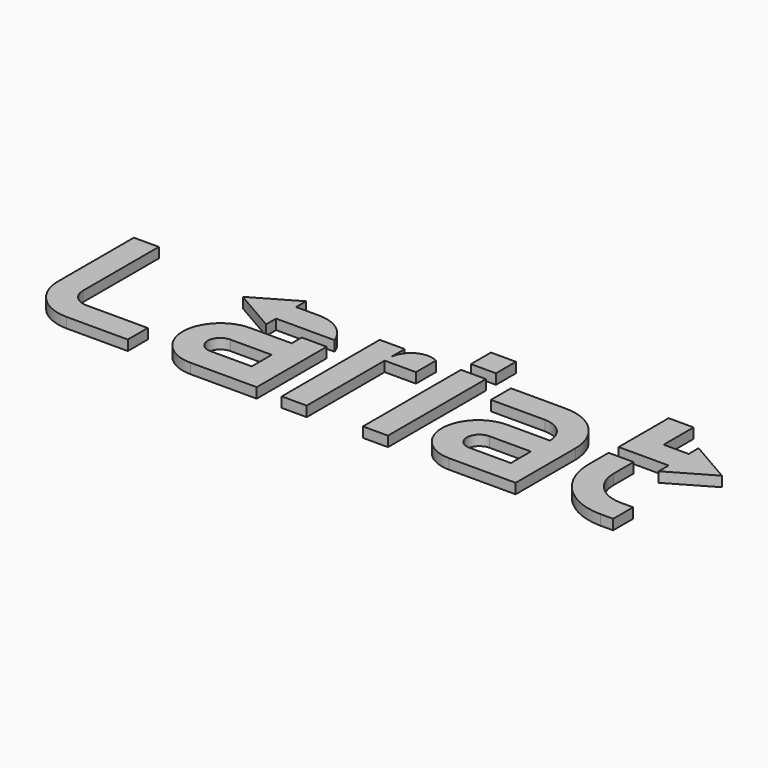
from build123d import *

# Parameters (mm, degrees)
F0_W     = 31.224048
F0_H     = 152.997836
F0_H_2   = 31.224048
F1_DEPTH = 12.7


with BuildPart() as f1:
    # F0 (on Top) → F1 (new body)
    with BuildSketch(Plane.XY):
        with BuildLine():
            ThreePointArc((11.324252, 53.080882), (-14.820312, 52.421086), (-27.705809, 29.662846))
            Line((-27.705809, 29.662846), (-27.705809, 53.080882))
            Line((-27.705809, 53.080882), (-58.929857, 53.080882))
            Line((-58.929857, 53.080882), (-58.929857, -99.916954))
            Line((-58.929857, -99.916954), (-27.705809, -99.916954))
            Line((-27.705809, -99.916954), (-27.705809, 21.856834))
            Line((-27.705809, 21.856834), (3.51824, 21.856834))
            Line((3.51824, 21.856834), (11.324252, 21.856834))
            Line((11.324252, 21.856834), (11.324252, 53.080882))
        make_face()
        with BuildLine():
            Line((-90.153905, 9.367214), (-121.377953, 9.367214))
            Line((-121.377953, 9.367214), (-121.377953, -6.24481))
            Line((-121.377953, -6.24481), (-173.128856, -6.24481))
            ThreePointArc((-173.128856, -6.24481), (-219.964928, -53.080882), (-173.128856, -99.916954))
            Line((-173.128856, -99.916954), (-90.153905, -99.916954))
            Line((-90.153905, -99.916954), (-90.153905, 9.367214))
        make_face()
        with BuildLine():
            ThreePointArc((-173.128856, -68.692906), (-188.74088, -53.080882), (-173.128856, -37.468858))
            Line((-173.128856, -37.468858), (-121.377953, -37.468858))
            Line((-121.377953, -37.468858), (-121.377953, -68.692906))
            Line((-121.377953, -68.692906), (-173.128856, -68.692906))
        make_face(mode=Mode.SUBTRACT)
        with BuildLine():
            Line((-165.88329, 56.203287), (-165.88329, 71.815311))
            Line((-165.88329, 71.815311), (-219.964928, 40.591263))
            Line((-219.964928, 40.591263), (-165.88329, 9.367214))
            Line((-165.88329, 9.367214), (-165.88329, 24.979239))
            Line((-165.88329, 24.979239), (-92.832505, 24.979239))
            ThreePointArc((-92.832505, 24.979239), (-109.949158, 47.608707), (-136.989977, 56.203287))
            Line((-136.989977, 56.203287), (-165.88329, 56.203287))
        make_face()
        with BuildLine():
            Line((-349.775952, 71.815311), (-381, 71.815311))
            Line((-381, 71.815311), (-381, -46.61417))
            ThreePointArc((-381, -46.61417), (-365.387976, -84.30493), (-327.697216, -99.916954))
            Line((-327.697216, -99.916954), (-251.188977, -99.916954))
            Line((-251.188977, -99.916954), (-251.188977, -68.692906))
            Line((-251.188977, -68.692906), (-327.697216, -68.692906))
            ThreePointArc((-327.697216, -68.692906), (-343.30924, -62.226194), (-349.775952, -46.61417))
            Line((-349.775952, -46.61417), (-349.775952, 71.815311))
        make_face()
        with Locations((58.160324, -23.418036)):
            Rectangle(F0_W, F0_H)
        with Locations((58.160324, 84.30493)):
            Rectangle(F0_W, F0_H_2)
        with BuildLine():
            Line((104.996396, 53.080882), (104.996396, 21.856834))
            Line((104.996396, 21.856834), (172.359323, 21.856834))
            ThreePointArc((172.359323, 21.856834), (194.43806, 12.711522), (203.583372, -9.367214))
            Line((203.583372, -9.367214), (150.271266, -9.367214))
            ThreePointArc((150.271266, -9.367214), (104.996396, -54.642084), (150.271266, -99.916954))
            Line((150.271266, -99.916954), (233.246217, -99.916954))
            Line((233.246217, -99.916954), (233.246217, -6.677456))
            ThreePointArc((233.246217, -6.677456), (215.743405, 35.57807), (173.487879, 53.080882))
            Line((173.487879, 53.080882), (104.996396, 53.080882))
        make_face()
        with BuildLine():
            ThreePointArc((151.832469, -70.254109), (136.220445, -54.642084), (151.832469, -39.03006))
            Line((151.832469, -39.03006), (203.583372, -39.03006))
            Line((203.583372, -39.03006), (203.583372, -70.254109))
            Line((203.583372, -70.254109), (151.832469, -70.254109))
        make_face(mode=Mode.SUBTRACT)
        with BuildLine():
            Line((295.694314, 6.24481), (264.470266, 6.24481))
            Line((264.470266, 6.24481), (264.470266, -24.979239))
            ThreePointArc((264.470266, -24.979239), (286.419014, -77.968206), (339.407981, -99.916954))
            Line((339.407981, -99.916954), (355.020005, -99.916954))
            Line((355.020005, -99.916954), (355.020005, -68.692906))
            Line((355.020005, -68.692906), (339.407981, -68.692906))
            ThreePointArc((339.407981, -68.692906), (308.497751, -55.889469), (295.694314, -24.979239))
            Line((295.694314, -24.979239), (295.694314, 6.24481))
        make_face()
        Polygon((295.694314, 99.916954), (264.470266, 99.916954), (264.470266, 21.856834), (295.694314, 21.856834), (326.918362, 21.856834), (326.918362, 6.24481), (381, 37.468858), (326.918362, 68.692906), (326.918362, 53.080882), (295.694314, 53.080882), align=None)
    extrude(amount=-F1_DEPTH)


solid = f1.part
